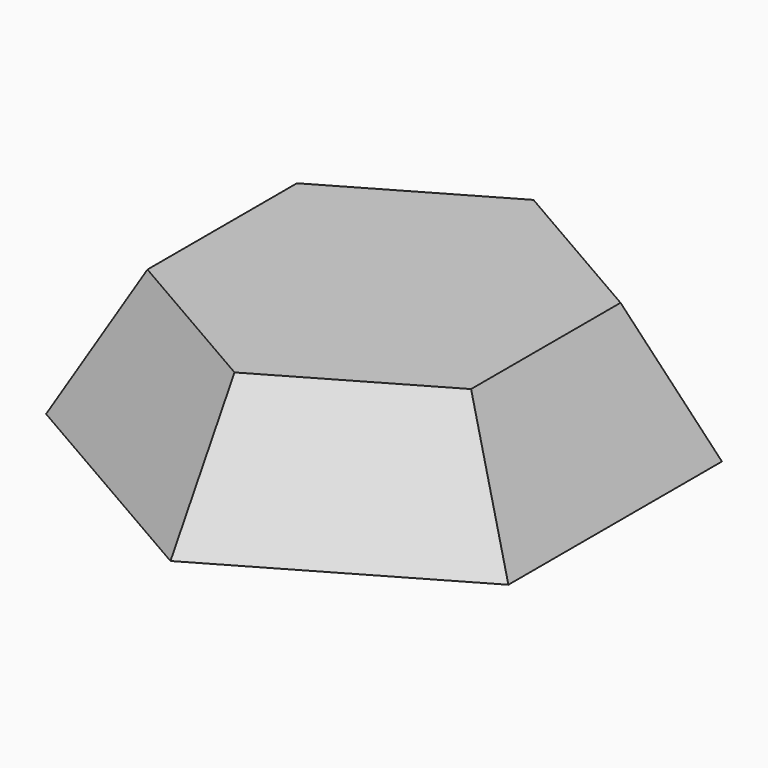
from build123d import *

# Parameters (mm, degrees)
F1_DEPTH = 25
F8_DEPTH = 4
F9_R     = 2


with BuildPart() as f1:
    # F0 (on Top) → F1 (new body)
    with BuildSketch(Plane.XY):
        Polygon((0, -35), (30.3108891325, -17.5), (30.3108891325, 17.5), (0, 35), (-30.3108891325, 17.5), (-30.3108891325, -17.5), align=None)
    extrude(amount=F1_DEPTH)

    # F1_face (on face) → F3 section 0
    with BuildSketch(Plane.XY.offset(25)):
        Polygon((-30.3108891325, -17.5), (0, -35), (30.3108891325, -17.5), (30.3108891325, 17.5), (0, 35), (-30.3108891325, 17.5), align=None)
    # F2 (on Top) → F3 section 1
    with BuildSketch(Plane.XY):
        Polygon((43.3012701892, 25), (0, 50), (-43.3012701892, 25), (-43.3012701892, -25), (0, -50), (43.3012701892, -25), align=None)
    loft()

    # F4 (on Top) → F6 section 0
    with BuildSketch(Plane.XY):
        Polygon((-40.7031939779, -23.5), (0, -47), (40.7031939779, -23.5), (40.7031939779, 23.5), (0, 47), (-40.7031939779, 23.5), align=None)
    # F5 (on face) → F6 section 1
    with BuildSketch(Plane.XY.offset(25)):
        Polygon((27.7128129211, 16), (0, 32), (-27.7128129211, 16), (-27.7128129211, -16), (0, -32), (27.7128129211, -16), align=None)
    loft(mode=Mode.SUBTRACT)

    # F7 (on face) → F8 (join)
    with BuildSketch(Plane.XY.offset(25)):
        Polygon((-30.3108891325, -17.5), (0, -35), (30.3108891325, -17.5), (30.3108891325, 17.5), (0, 35), (-30.3108891325, 17.5), align=None)
    extrude(amount=-F8_DEPTH)

    # F9
    f9_edges = [f1.edges().sort_by_distance(p)[0] for p in [
        (-14.895637, -25.8, 21),
        (-29.791274, 0, 21),
        (14.895637, -25.8, 21),
        (29.791274, 0, 21),
        (14.895637, 25.8, 21),
        (-14.895637, 25.8, 21),
    ]]
    fillet(f9_edges, radius=F9_R)


solid = f1.part
